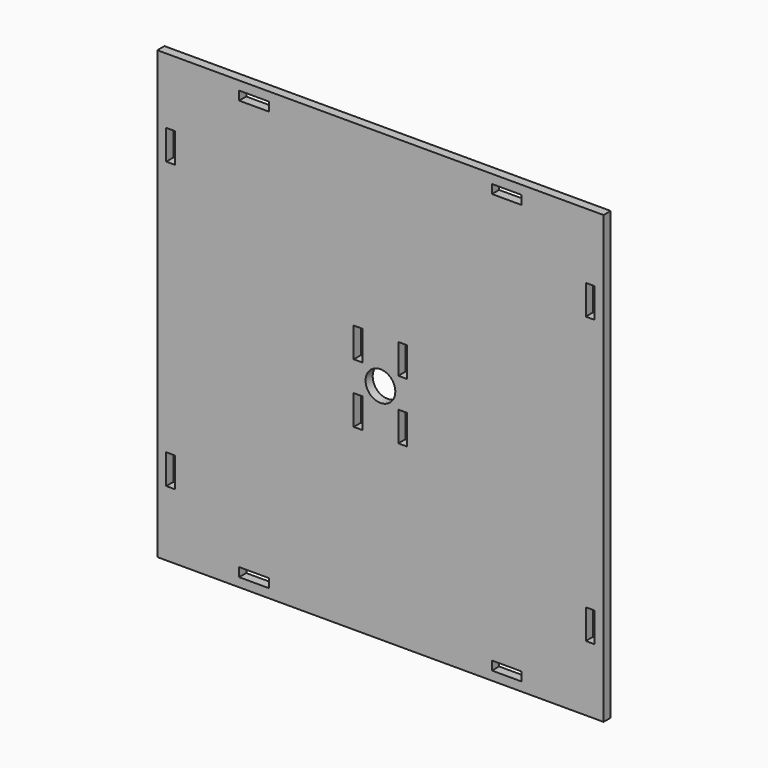
from build123d import *

# Parameters (mm, degrees)
F0_W     = 150
F0_H     = 150
F0_W_2   = 10
F0_H_2   = 2.98
F0_W_3   = 2.98
F0_H_3   = 10
F0_H_4   = 9.999817
F0_R     = 5
F1_DEPTH = 3


with BuildPart() as f1:
    # F0 (on Front) → F1 (new body)
    with BuildSketch(Plane.XZ):
        Rectangle(F0_W, F0_H)
        with Locations((-42.5, -70.51)):
            Rectangle(F0_W_2, F0_H_2, mode=Mode.SUBTRACT)
        with Locations((-70.51, -48)):
            Rectangle(F0_W_3, F0_H_3, mode=Mode.SUBTRACT)
        with Locations((-7.49, -9.999909)):
            Rectangle(F0_W_3, F0_H_4, mode=Mode.SUBTRACT)
        with Locations((42.5, -70.51)):
            Rectangle(F0_W_2, F0_H_2, mode=Mode.SUBTRACT)
        with Locations((70.51, -48)):
            Rectangle(F0_W_3, F0_H_3, mode=Mode.SUBTRACT)
        with Locations((7.49, -10)):
            Rectangle(F0_W_3, F0_H_3, mode=Mode.SUBTRACT)
        with Locations((-7.49, 10)):
            Rectangle(F0_W_3, F0_H_3, mode=Mode.SUBTRACT)
        with Locations((-70.51, 48)):
            Rectangle(F0_W_3, F0_H_3, mode=Mode.SUBTRACT)
        with Locations((-42.5, 70.51)):
            Rectangle(F0_W_2, F0_H_2, mode=Mode.SUBTRACT)
        Circle(F0_R, mode=Mode.SUBTRACT)
        with Locations((7.49, 10)):
            Rectangle(F0_W_3, F0_H_3, mode=Mode.SUBTRACT)
        with Locations((70.51, 48)):
            Rectangle(F0_W_3, F0_H_3, mode=Mode.SUBTRACT)
        with Locations((42.5, 70.51)):
            Rectangle(F0_W_2, F0_H_2, mode=Mode.SUBTRACT)
    extrude(amount=F1_DEPTH)


solid = f1.part
